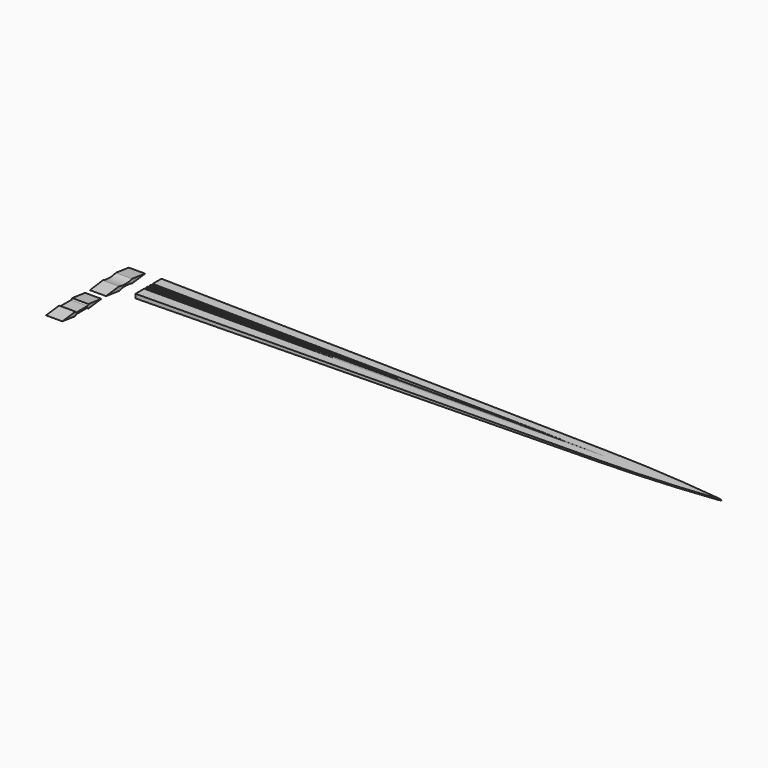
from build123d import *

# Parameters (mm, degrees)
F1_DEPTH      = 25.4
F1_DEPTH_BACK = 25.4
F3_DEPTH      = 25.4
F3_DEPTH_BACK = 25.4
F6_R          = 1.905
F7_DEPTH      = 762
F9_R          = 1.9050067243
F10_DEPTH     = 762
F4_W          = 2.54
F4_H          = 19.05
F11_DEPTH     = 387.9596
F13_DEPTH     = 25.4


with BuildPart() as f1:
    # F0 (on Front) → F1 (new body, two sides)
    with BuildSketch(Plane.XZ) as f1_sk:
        with BuildLine():
            Line((889, 0.79375), (0, 3.175))
            Line((0, 3.175), (0, -3.175))
            Line((0, -3.175), (889, -0.79375))
            ThreePointArc((889, -0.79375), (892.1991750001, -0.5902750005), (895.35, 0))
            ThreePointArc((895.35, 0), (892.1991750001, 0.5902750005), (889, 0.79375))
        make_face()
    extrude(amount=F1_DEPTH)
    extrude(f1_sk.sketch, amount=-F1_DEPTH_BACK)

    # F2 (on Top) → F3 (cut, two sides)
    with BuildSketch(Plane.XY) as f3_sk:
        with BuildLine():
            Line((3.1591274952, 202.3111397314), (0, 25.4))
            Line((0, 25.4), (711.2, 12.7))
            ThreePointArc((711.2, 12.7), (803.4369640592, 8.6984788578), (895.35, 0))
            ThreePointArc((895.35, 0), (803.4369640592, -8.6984788578), (711.2, -12.7))
            Line((711.2, -12.7), (0, -25.4))
            Line((0, -25.4), (0, -301.8189966679))
            Line((0, -301.8189966679), (947.6996660233, -301.8189966679))
            Line((947.6996660233, -301.8189966679), (947.6996660233, 202.3111397314))
            Line((947.6996660233, 202.3111397314), (3.1591274952, 202.3111397314))
        make_face()
    extrude(amount=-F3_DEPTH, mode=Mode.SUBTRACT)
    extrude(f3_sk.sketch, amount=F3_DEPTH_BACK, mode=Mode.SUBTRACT)

    # F6 (on face) → F7 (cut)
    with BuildSketch(Plane(origin=(-0.2267676956, -0.0020247121, 0), x_dir=(-0.0089282179, 0.9999601427, 0), z_dir=(0.9999601427, 0.0089282179, 0))):
        with Locations((-6.3497469059, 3.175)):
            Circle(F6_R)
    extrude(amount=F7_DEPTH, mode=Mode.SUBTRACT)

    # F9 (on line) → F10 (cut)
    with BuildSketch(Plane(origin=(-0.6802307815, 0.0060734907, 0), x_dir=(-0.0089282179, -0.9999601427, 0), z_dir=(-0.9999601427, 0.0089282179, 0))):
        with Locations((-6.3446853275, 3.175)):
            Circle(F9_R)
    extrude(amount=-F10_DEPTH, mode=Mode.SUBTRACT)

    # F4 (on Right) → F11 (cut)
    with BuildSketch(Plane.YZ):
        with Locations((0, 10.795)):
            Rectangle(F4_W, F4_H)
    extrude(amount=F11_DEPTH, mode=Mode.SUBTRACT)


with BuildPart() as f13:
    # F12 (on Right) → F13 (new body)
    with BuildSketch(Plane.YZ):
        with BuildLine():
            Line((-174.3699965763, 47.5311353803), (-199.7699965763, 44.3561353803))
            Line((-199.7699965763, 44.3561353803), (-174.3699965763, 41.1811353803))
            ThreePointArc((-174.3699965763, 41.1811353803), (-173.8120349945, 42.5281737984), (-172.4649965763, 43.0861353803))
            Line((-172.4649965763, 43.0861353803), (-150.8749965763, 43.0861353803))
            ThreePointArc((-150.8749965763, 43.0861353803), (-149.5279581581, 42.5281737984), (-148.9699965763, 41.1811353803))
            Line((-148.9699965763, 41.1811353803), (-123.5699965763, 44.3561353803))
            Line((-123.5699965763, 44.3561353803), (-148.9699965763, 47.5311353803))
            ThreePointArc((-148.9699965763, 47.5311353803), (-149.5279581581, 46.1840969621), (-150.8749965763, 45.6261353803))
            Line((-150.8749965763, 45.6261353803), (-172.4649965763, 45.6261353803))
            ThreePointArc((-172.4649965763, 45.6261353803), (-173.8120349945, 46.1840969621), (-174.3699965763, 47.5311353803))
        make_face()
    extrude(amount=F13_DEPTH)


with BuildPart() as f13b:
    # F12 (on Right) → F13, piece 2 (new body)
    with BuildSketch(Plane.YZ):
        with BuildLine():
            Line((-89.0742935857, 47.5311353803), (-114.4742935857, 44.3561353803))
            Line((-114.4742935857, 44.3561353803), (-89.0742935857, 41.1811353803))
            ThreePointArc((-89.0742935857, 41.1811353803), (-76.3742935857, 43.0861353803), (-63.6742935857, 41.1811353803))
            Line((-63.6742935857, 41.1811353803), (-38.2742935857, 44.3561353803))
            Line((-38.2742935857, 44.3561353803), (-63.6742935857, 47.5311353803))
            ThreePointArc((-63.6742935857, 47.5311353803), (-76.3742935857, 45.6261353803), (-89.0742935857, 47.5311353803))
        make_face()
    extrude(amount=F13_DEPTH)


solid = Compound([f1.part, f13.part, f13b.part])
